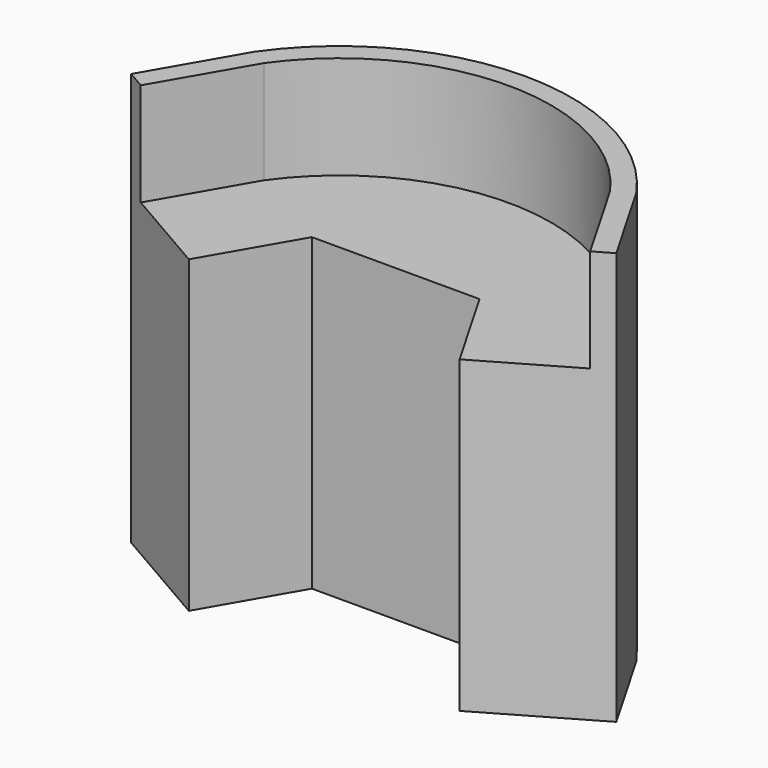
from build123d import *

# Parameters (mm, degrees)
F2_DEPTH = 80
F4_DEPTH = 20


with BuildPart() as f2:
    # F1 (on Top) → F2 (new body)
    with BuildSketch(Plane.XY):
        Polygon((-47.03461, -73.466334), (-26.25, -85.466334), (-16.25, -68.145826), (-37.03461, -56.145826), align=None)
        with BuildLine():
            Line((-37.03461, -56.145826), (-16.25, -68.145826))
            Line((-16.25, -68.145826), (16.25, -68.145826))
            Line((16.25, -68.145826), (37.03461, -56.145826))
            ThreePointArc((37.03461, -56.145826), (0, -36.763884), (-37.03461, -56.145826))
        make_face()
        Polygon((37.03461, -56.145826), (16.25, -68.145826), (26.25, -85.466334), (47.03461, -73.466334), align=None)
    extrude(amount=F2_DEPTH)

    # F3 (on face) → F4 (cut)
    with BuildSketch(Plane.XY.offset(80)):
        with BuildLine():
            Line((-43.570508, -75.466334), (-26.25, -85.466334))
            Line((-26.25, -85.466334), (-16.25, -68.145826))
            Line((-16.25, -68.145826), (16.25, -68.145826))
            Line((16.25, -68.145826), (26.25, -85.466334))
            Line((26.25, -85.466334), (43.570508, -75.466334))
            Line((43.570508, -75.466334), (33.570508, -58.145826))
            ThreePointArc((33.570508, -58.145826), (0, -40.748813), (-33.570508, -58.145826))
            Line((-33.570508, -58.145826), (-43.570508, -75.466334))
        make_face()
    extrude(amount=-F4_DEPTH, mode=Mode.SUBTRACT)


solid = f2.part
